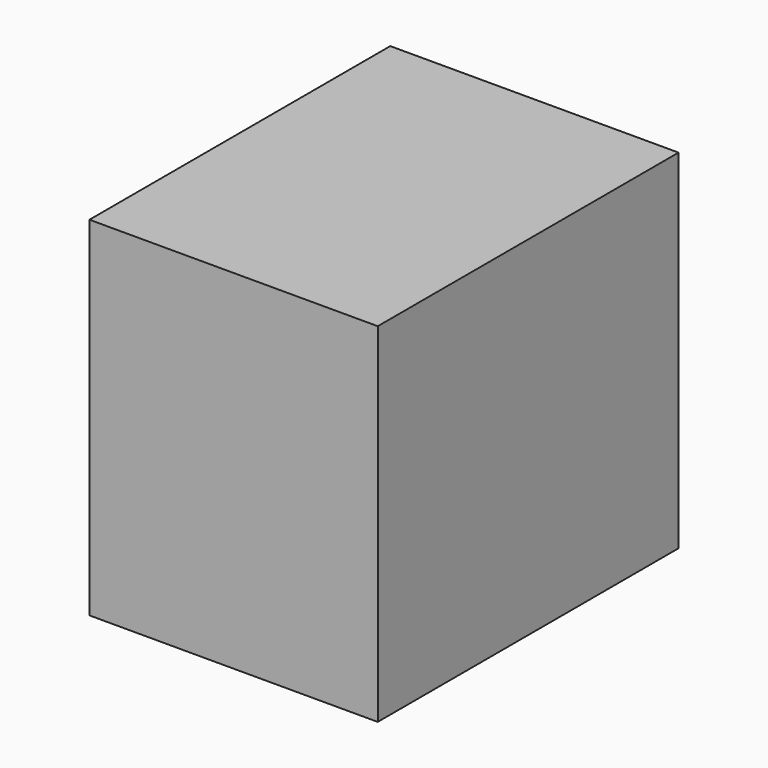
from build123d import *

# Parameters (mm, degrees)
SKETCH_W  = 782.5
SKETCH_H  = 725
PAD_DEPTH = 600


with BuildPart() as part:
    # Sketch → Pad (new body)
    with BuildSketch(Plane.YZ):
        with Locations((-391.25, 362.5)):
            Rectangle(SKETCH_W, SKETCH_H)
    extrude(amount=PAD_DEPTH)


solid = part.part
